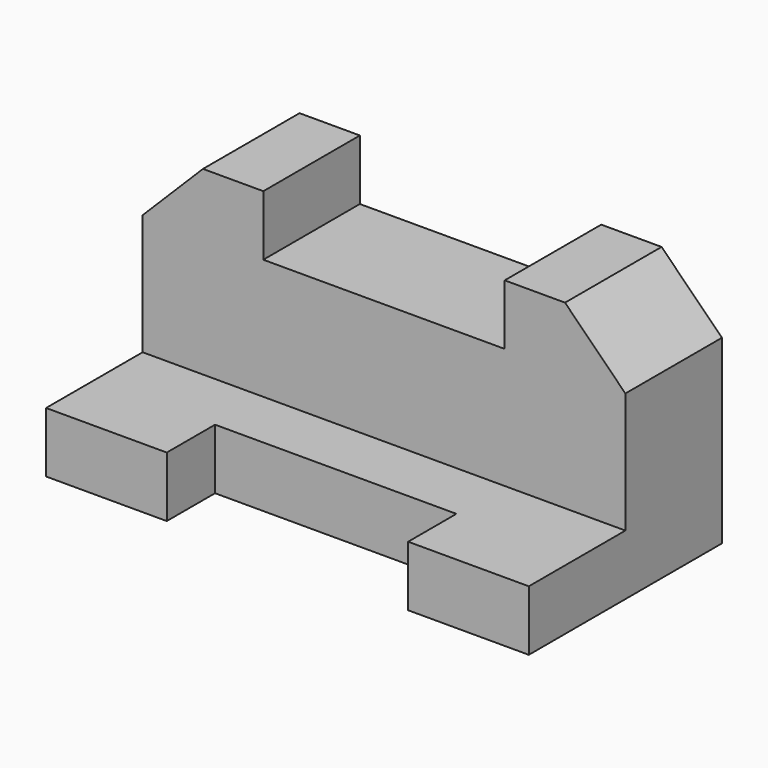
from build123d import *

# Parameters (mm, degrees)
F0_W      = 203.2
F0_H      = 101.6
F1_DEPTH  = 101.6
F2_W      = 203.2
F2_H      = 76.2
F3_DEPTH  = 50.8
F4_W      = 101.6
F4_H      = 25.4
F5_DEPTH  = 25.4
F6_W      = 101.6
F6_H      = 25.4
F7_DEPTH  = 50.8
F9_DEPTH  = 50.8
F11_DEPTH = 50.8


with BuildPart() as f1:
    # F0 (on Front) → F1 (new body)
    with BuildSketch(Plane.XZ):
        with Locations((16.267095, 6.327099)):
            Rectangle(F0_W, F0_H)
    extrude(amount=F1_DEPTH)

    # F2 (on face) → F3 (cut)
    with BuildSketch(Plane.XZ.offset(101.6)):
        with Locations((16.267095, 19.027099)):
            Rectangle(F2_W, F2_H)
    extrude(amount=-F3_DEPTH, mode=Mode.SUBTRACT)

    # F4 (on face) → F5 (cut)
    with BuildSketch(Plane.XZ.offset(101.6)):
        with Locations((16.267095, -31.772901)):
            Rectangle(F4_W, F4_H)
    extrude(amount=-F5_DEPTH, mode=Mode.SUBTRACT)

    # F6 (on face) → F7 (cut)
    with BuildSketch(Plane.XZ.offset(50.8)):
        with Locations((16.267095, 44.427099)):
            Rectangle(F6_W, F6_H)
    extrude(amount=-F7_DEPTH, mode=Mode.SUBTRACT)

    # F8 (on face) → F9 (cut)
    with BuildSketch(Plane.XZ.offset(50.8)):
        Polygon((92.467095, 57.127099), (117.867095, 31.727099), (117.867095, 57.127099), align=None)
    extrude(amount=-F9_DEPTH, mode=Mode.SUBTRACT)

    # F10 (on face) → F11 (cut)
    with BuildSketch(Plane.XZ.offset(50.8)):
        Polygon((-85.332905, 57.127099), (-85.332905, 31.727099), (-59.932905, 57.127099), align=None)
    extrude(amount=-F11_DEPTH, mode=Mode.SUBTRACT)


solid = f1.part
